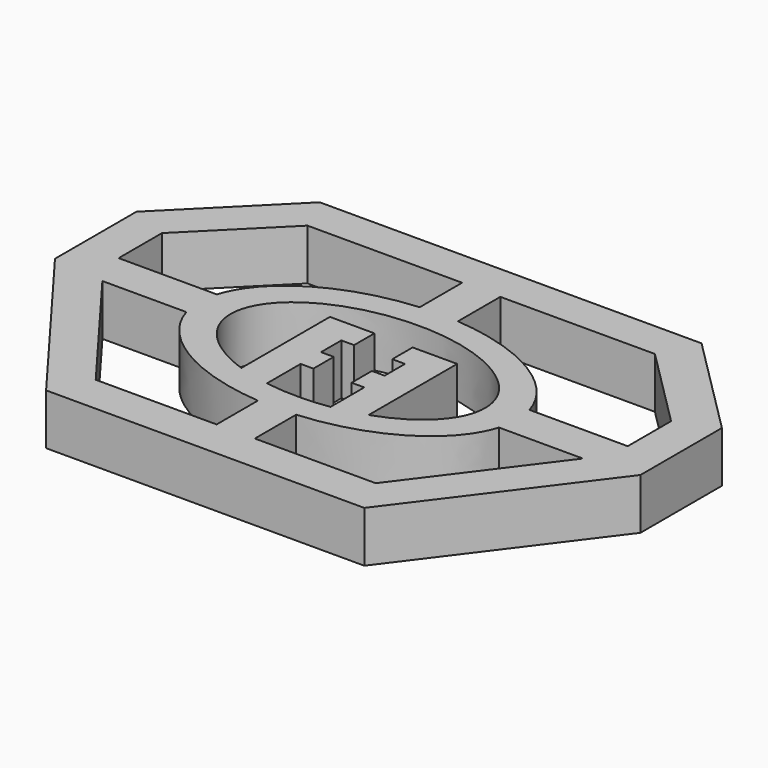
from build123d import *

# Parameters (mm, degrees)
F1_DEPTH = 4


with BuildPart() as f1:
    # F0 (on Top) → F1 (new body)
    with BuildSketch(Plane.XY):
        Polygon((23, 7), (15, 15), (-15, 15), (-23, 7), (-23, -1), (-12.5, -15), (12.5, -15), (23, -1), align=None)
        with BuildLine():
            Line((-1.5, -12), (-11, -12))
            Line((-11, -12), (-18.875, -1.5))
            Line((-18.875, -1.5), (-12.2783075355, -1.5))
            add(Edge.make_bspline(
                [(-12.2783075355, -1.5), (-10.5660501713, -7.240850517), (-1.5, -7.9421911334)],
                knots=[3.3302090398, 3.3302090398, 3.3302090398, 4.592099098, 4.592099098, 4.592099098], degree=2, weights=[1, 0.8074703886, 1]))
            Line((-1.5, -7.9421911334), (-1.5, -12))
        make_face(mode=Mode.SUBTRACT)
        with BuildLine():
            Line((18.875, -1.5), (11, -12))
            Line((11, -12), (1.5, -12))
            Line((1.5, -12), (1.5, -7.9421911334))
            add(Edge.make_bspline(
                [(1.5, -7.9421911334), (10.5660501713, -7.240850517), (12.2783075355, -1.5)],
                knots=[4.8326788628, 4.8326788628, 4.8326788628, 6.094568921, 6.094568921, 6.094568921], degree=2, weights=[1, 0.8074703886, 1]))
            Line((12.2783075355, -1.5), (18.875, -1.5))
        make_face(mode=Mode.SUBTRACT)
        with BuildLine():
            Line((-20, 1.5), (-20, 5.7573593129))
            Line((-20, 5.7573593129), (-13.6476251949, 12.109734118))
            Line((-13.6476251949, 12.109734118), (-1.5, 12.109734118))
            Line((-1.5, 12.109734118), (-1.5, 7.9421911334))
            add(Edge.make_bspline(
                [(-1.5, 7.9421911334), (-10.5660501713, 7.240850517), (-12.2783075355, 1.5)],
                knots=[1.6910862092, 1.6910862092, 1.6910862092, 2.9529762674, 2.9529762674, 2.9529762674], degree=2, weights=[1, 0.8074703886, 1]))
            Line((-12.2783075355, 1.5), (-20, 1.5))
        make_face(mode=Mode.SUBTRACT)
        with BuildLine():
            add(Edge.make_bspline(
                [(5, -5.1961524227), (15.3208888624, -1.6208916449), (7.6604444312, 3.8567256581), (0, 9.3343429612), (-7.6604444312, 3.8567256581), (-15.3208888624, -1.6208916449), (-5, -5.1961524227)],
                knots=[5.235987756, 5.235987756, 5.235987756, 6.981317008, 6.981317008, 8.72664626, 8.72664626, 10.471975512, 10.471975512, 10.471975512], degree=2, weights=[1, 0.6427876097, 1, 0.6427876097, 1, 0.6427876097, 1]))
            Line((5, -5.1961524227), (5, 1.5))
            Line((5, 1.5), (5, 3.5))
            Line((5, 3.5), (1.5, 3.5))
            Line((1.5, 3.5), (1.5, 1.5))
            Line((1.5, 1.5), (2.5, 1.5))
            Line((2.5, 1.5), (2.5, -0.5))
            Line((2.5, -0.5), (1.5, -0.5))
            Line((1.5, -0.5), (1.5, -2.5))
            Line((1.5, -2.5), (2.5, -2.5))
            Line((2.5, -2.5), (2.5, -5.8094750193))
            add(Edge.make_bspline(
                [(-2.5, -5.8094750193), (0, -6.1967733539), (2.5, -5.8094750193)],
                knots=[4.4597087252, 4.4597087252, 4.4597087252, 4.9650692355, 4.9650692355, 4.9650692355], degree=2, weights=[1, 0.9682458366, 1]))
            Line((-2.5, -5.8094750193), (-2.5, -2.5))
            Line((-2.5, -2.5), (-1.5, -2.5))
            Line((-1.5, -2.5), (-1.5, -0.5))
            Line((-1.5, -0.5), (-2.5, -0.5))
            Line((-2.5, -0.5), (-2.5, 1.5))
            Line((-2.5, 1.5), (-1.5, 1.5))
            Line((-1.5, 1.5), (-1.5, 3.5))
            Line((-1.5, 3.5), (-5, 3.5))
            Line((-5, 3.5), (-5, 1.5))
            Line((-5, 1.5), (-5, -5.1961524227))
        make_face(mode=Mode.SUBTRACT)
        with BuildLine():
            Line((20, 1.5), (12.2783075355, 1.5))
            add(Edge.make_bspline(
                [(12.2783075355, 1.5), (10.5660501713, 7.240850517), (1.5, 7.9421911334)],
                knots=[0.1886163862, 0.1886163862, 0.1886163862, 1.4505064444, 1.4505064444, 1.4505064444], degree=2, weights=[1, 0.8074703886, 1]))
            Line((1.5, 7.9421911334), (1.5, 12.109734118))
            Line((1.5, 12.109734118), (13.6476251949, 12.109734118))
            Line((13.6476251949, 12.109734118), (20, 5.7573593129))
            Line((20, 5.7573593129), (20, 1.5))
        make_face(mode=Mode.SUBTRACT)
    extrude(amount=F1_DEPTH)


solid = f1.part
